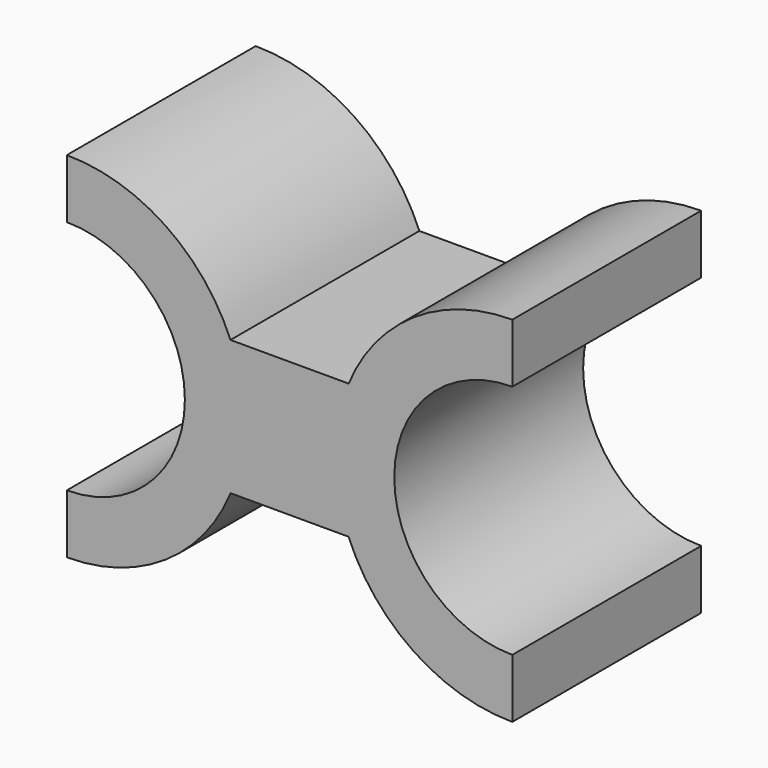
from build123d import *

# Parameters (mm, degrees)
F1_DEPTH = 101.6


with BuildPart() as f1:
    # F0 (on Front) → F1 (new body)
    with BuildSketch(Plane.XZ):
        with BuildLine():
            ThreePointArc((-121.554453, 29.355259), (-149.616369, 63.61542), (-191.991121, 76.484382))
            Line((-191.991121, 76.484382), (-191.991121, 51.084382))
            ThreePointArc((-191.991121, 51.084382), (-141.191121, 0.284382), (-191.991121, -50.515618))
            Line((-191.991121, -50.515618), (-191.991121, -75.915618))
            ThreePointArc((-191.991121, -75.915618), (-149.565272, -63.012437), (-121.507622, -28.672766))
            Line((-121.507622, -28.672766), (-70.754453, -28.672766))
            ThreePointArc((-70.754453, -28.672766), (-42.696804, -63.012437), (-0.270955, -75.915618))
            Line((-0.270955, -75.915618), (-0.270955, -50.515618))
            ThreePointArc((-0.270955, -50.515618), (-51.070955, 0.284382), (-0.270955, 51.084382))
            Line((-0.270955, 51.084382), (-0.270955, 76.484382))
            ThreePointArc((-0.270955, 76.484382), (-42.696804, 63.581202), (-70.754453, 29.24153))
            Line((-70.754453, 29.24153), (-70.754453, 29.355259))
            Line((-70.754453, 29.355259), (-121.554453, 29.355259))
        make_face()
    extrude(amount=F1_DEPTH)


solid = f1.part
